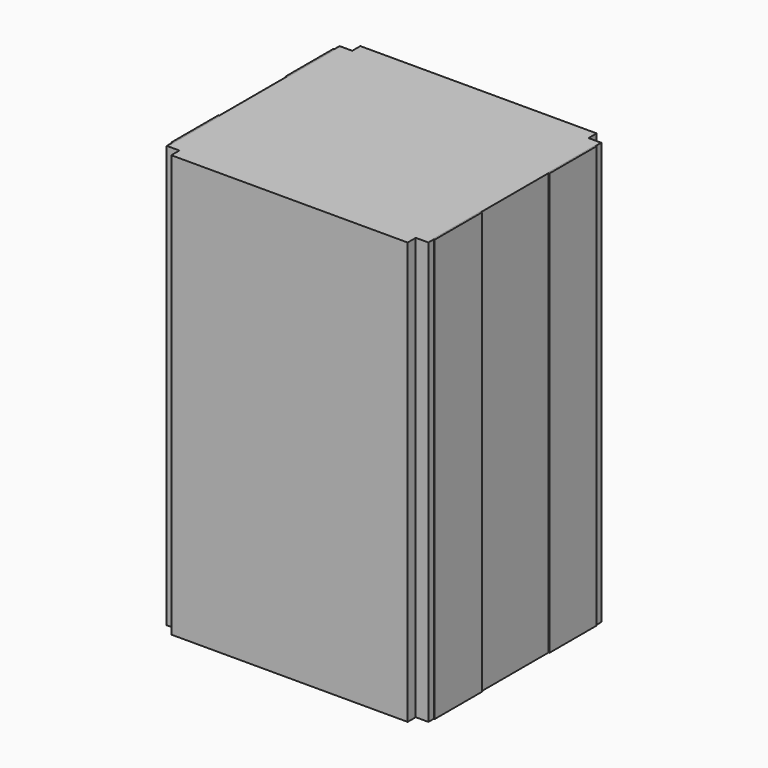
from build123d import *

# Parameters (mm, degrees)
F0_W     = 14
F0_H     = 14
F1_DEPTH = 12.5
F2_W     = 14
F2_H     = 0.6
F2_W_2   = 0.75
F2_H_2   = 12.8
F3_DEPTH = 12.5
F4_W     = 0.8
F4_H     = 3.5
F5_DEPTH = 12.5
F6_W     = 13.9
F6_H     = 13.9
F7_DEPTH = 12.5
F8_W     = 14
F8_H     = 0.65
F8_W_2   = 0.7
F8_H_2   = 12.7
F9_DEPTH = 12.5


with BuildPart() as f1:
    # F0 (on Top) → F1 (new body, symmetric)
    with BuildSketch(Plane.XY):
        Rectangle(F0_W, F0_H)
    extrude(amount=F1_DEPTH, both=True)


with BuildPart() as f3:
    # F2 (on Top) → F3 (new body, symmetric)
    with BuildSketch(Plane.XY):
        with Locations((0, 6.7)):
            Rectangle(F2_W, F2_H)
        with Locations((7.375, 0)):
            Rectangle(F2_W_2, F2_H_2)
        Rectangle(F2_W, F2_H_2)
        with Locations((-7.375, 0)):
            Rectangle(F2_W_2, F2_H_2)
        with Locations((0, -6.7)):
            Rectangle(F2_W, F2_H)
    extrude(amount=F3_DEPTH, both=True)


with BuildPart() as f5:
    # F4 (on Top) → F5 (new body, symmetric)
    with BuildSketch(Plane.XY):
        Polygon((7, 6), (7, 7), (-7, 7), (-7, 6), (-7, 2.5), (-7, -2.5), (-7, -6), (-7, -7), (7, -7), (7, -6), (7, -2.5), (7, 2.5), align=None)
        with Locations((7.4, 4.25)):
            Rectangle(F4_W, F4_H)
        with Locations((-7.4, 4.25)):
            Rectangle(F4_W, F4_H)
        with Locations((7.4, -4.25)):
            Rectangle(F4_W, F4_H)
        with Locations((-7.4, -4.25)):
            Rectangle(F4_W, F4_H)
    extrude(amount=F5_DEPTH, both=True)


with BuildPart() as f7:
    # F6 (on Top) → F7 (new body, symmetric)
    with BuildSketch(Plane.XY):
        Rectangle(F6_W, F6_H)
    extrude(amount=F7_DEPTH, both=True)


with BuildPart() as f9:
    # F8 (on Top) → F9 (new body, symmetric)
    with BuildSketch(Plane.XY):
        with Locations((0, 6.675)):
            Rectangle(F8_W, F8_H)
        with Locations((7.35, 0)):
            Rectangle(F8_W_2, F8_H_2)
        Rectangle(F8_W, F8_H_2)
        with Locations((-7.35, 0)):
            Rectangle(F8_W_2, F8_H_2)
        with Locations((0, -6.675)):
            Rectangle(F8_W, F8_H)
    extrude(amount=F9_DEPTH, both=True)


solid = Compound([f1.part, f3.part, f5.part, f7.part, f9.part])
